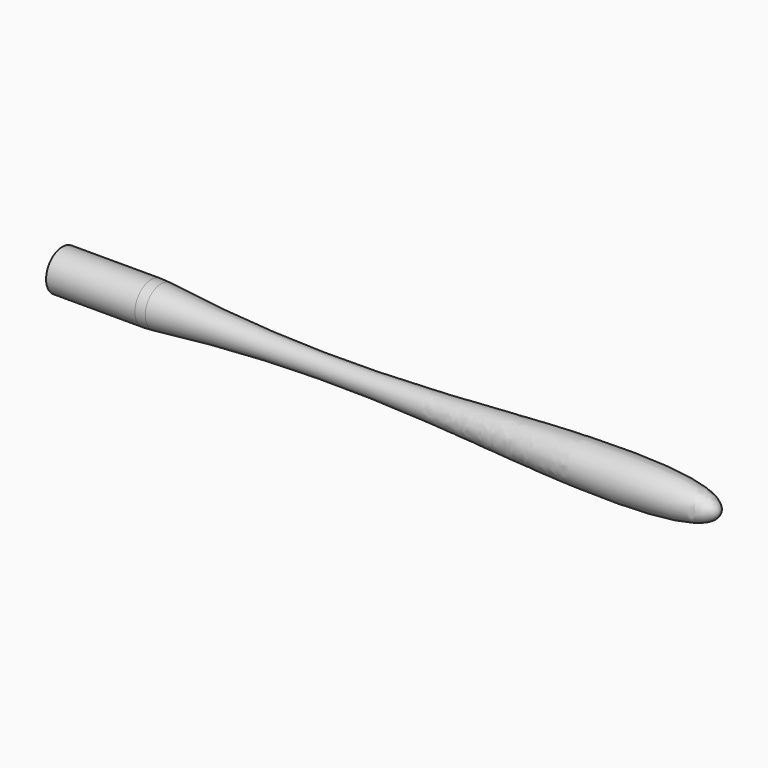
from build123d import *


with BuildPart() as f1:
    # F0 (on Front) → F1 (revolve)
    with BuildSketch(Plane.XZ):
        with BuildLine():
            Line((0, 5.5), (0, 0))
            Line((0, 0), (177.8, 0))
            add(Edge.make_bspline(
                [(26.7132624506, 5.3595702272), (76.7373601277, 0.0773846652), (125.5869919153, 7.0871895113), (177.8, 5.5), (177.8, 0)],
                knots=[0.0054710895, 0.0054710895, 0.0054710895, 0.0054710895, 0.6327772731, 1, 1, 1, 1], degree=3))
            ThreePointArc((26.7132624506, 5.3595702272), (25.381494949, 5.4648682607), (24.0460331881, 5.5))
            Line((24.0460331881, 5.5), (0, 5.5))
        make_face()
    revolve(axis=Axis((88.9, 0, 0), (-1, 0, 0)))


solid = f1.part
